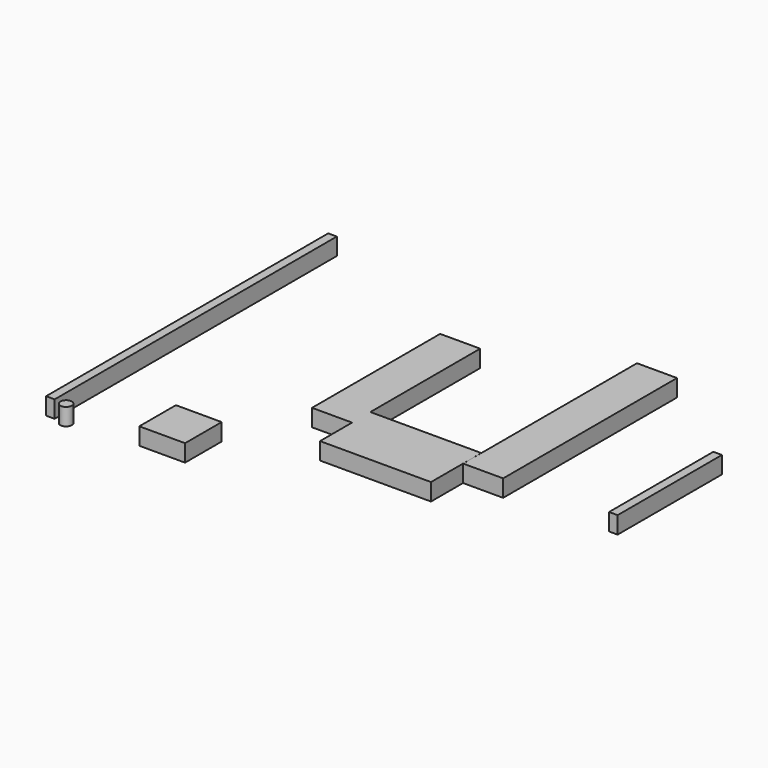
from build123d import *

# Parameters (mm, degrees)
F0_W     = 1940
F0_H     = 400
F0_W_2   = 700
F0_H_2   = 2400
F0_H_3   = 700
F0_W_3   = 150
F0_H_4   = 2279.557943
F0_W_4   = 800
F0_H_5   = 800
F0_R     = 100
F0_H_6   = 6165.928221
F0_H_7   = 3800
F1_DEPTH = 300


with BuildPart() as f1:
    # F0 (on Top) → F1 (new body)
    with BuildSketch(Plane.XY):
        with Locations((1770, -1150)):
            Rectangle(F0_W, F0_H)
        with Locations((450, -1150)):
            Rectangle(F0_W_2, F0_H)
        with Locations((450, 250)):
            Rectangle(F0_W_2, F0_H_2)
        with Locations((1770, -1700)):
            Rectangle(F0_W, F0_H_3)
        with Locations((5266, -82.301021)):
            Rectangle(F0_W_3, F0_H_4)
        with Locations((-1000, -2850)):
            Rectangle(F0_W_4, F0_H_5)
        with Locations((-2600, -3350)):
            Circle(F0_R)
        with Locations((-2875, -267.03589)):
            Rectangle(F0_W_3, F0_H_6)
        with Locations((3091, 551)):
            Rectangle(F0_W_2, F0_H_7)
    extrude(amount=F1_DEPTH)


solid = f1.part
